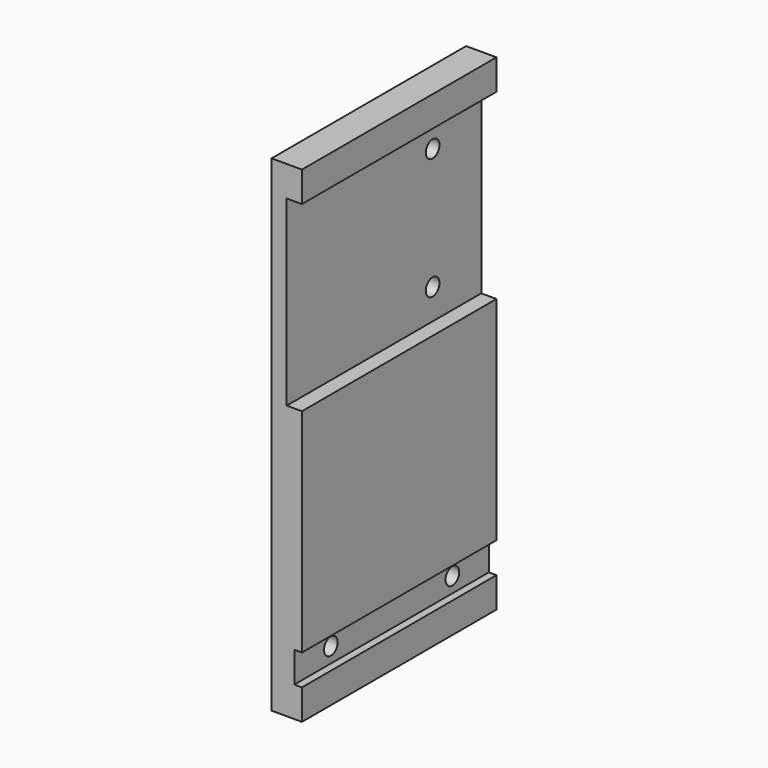
from build123d import *

# Parameters (mm, degrees)
F0_W     = 12.7
F0_H     = 203.2
F1_DEPTH = 101.6
F2_W     = 3.175
F2_H     = 12.827
F3_DEPTH = 101.6
F4_R     = 3.5687
F5_DEPTH = 9.525
F6_W     = 6.35
F6_H     = 76.2
F7_DEPTH = 101.6
F8_R     = 3.5687
F9_DEPTH = 6.35


with BuildPart() as f1:
    # F0 (on Front) → F1 (new body)
    with BuildSketch(Plane.XZ):
        with Locations((-51.562002, -57.235944)):
            Rectangle(F0_W, F0_H)
    extrude(amount=F1_DEPTH)

    # F2 (on face) → F3 (cut, through all)
    with BuildSketch(Plane.XZ.offset(101.6)):
        with Locations((-46.799502, -139.722444)):
            Rectangle(F2_W, F2_H)
    extrude(amount=-F3_DEPTH, mode=Mode.SUBTRACT)

    # F4 (on face) → F5 (cut, through all)
    with BuildSketch(Plane.YZ.offset(-48.387002)):
        with Locations((-82.55, -139.722444)):
            Circle(F4_R)
        with Locations((-19.05, -139.722444)):
            Circle(F4_R)
    extrude(amount=-F5_DEPTH, mode=Mode.SUBTRACT)

    # F6 (on face) → F7 (cut, through all)
    with BuildSketch(Plane.XZ.offset(101.6)):
        with Locations((-48.387002, -6.435944)):
            Rectangle(F6_W, F6_H)
    extrude(amount=-F7_DEPTH, mode=Mode.SUBTRACT)

    # F8 (on face) → F9 (cut, through all)
    with BuildSketch(Plane(origin=(-57.912002, 0, 0), x_dir=(0, -1, 0), z_dir=(-1, 0, 0))):
        with Locations((25.4, 18.964056)):
            Circle(F8_R)
        with Locations((25.4, -31.835944)):
            Circle(F8_R)
    extrude(amount=-F9_DEPTH, mode=Mode.SUBTRACT)


solid = f1.part
